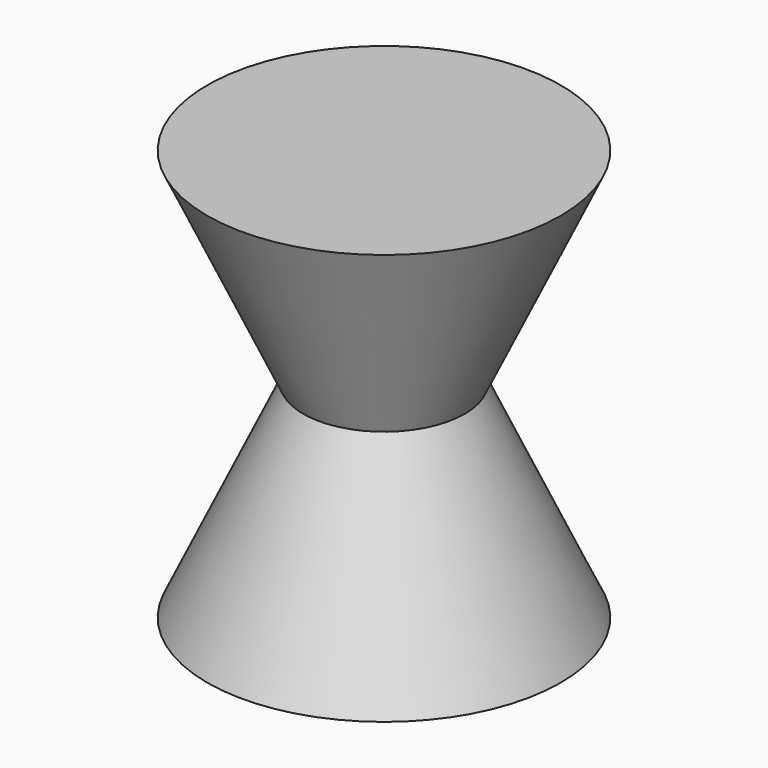
from build123d import *

# Parameters (mm, degrees)
F0_R     = 5
F1_DEPTH = 12.7
F1_TAPER = -25


with BuildPart() as f1:
    # F0 (on Top) → F1 (new body, symmetric)
    with BuildSketch(Plane.XY):
        Circle(F0_R)
    extrude(amount=F1_DEPTH, both=True, taper=F1_TAPER)


solid = f1.part
